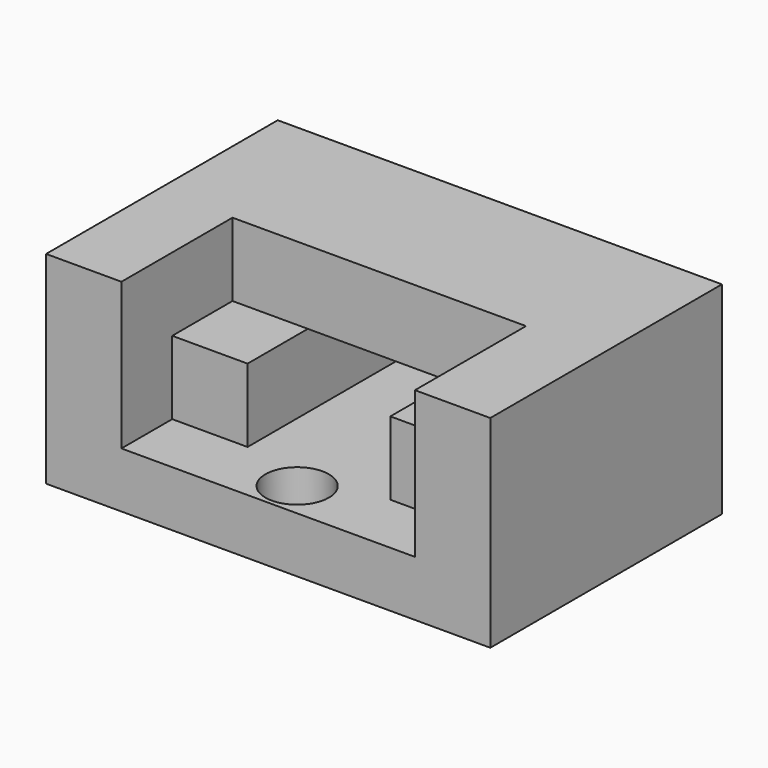
from build123d import *

# Parameters (mm, degrees)
F0_W     = 112
F0_H     = 51
F1_DEPTH = 57
F3_DEPTH = 19
F4_DEPTH = 16
F2_W     = 36
F2_H     = 18.5
F5_DEPTH = 56
F6_R     = 8
F7_DEPTH = 16


with BuildPart() as f1:
    # F0 (on Front) → F1 (new body)
    with BuildSketch(Plane.XZ):
        with Locations((56, 25.5)):
            Rectangle(F0_W, F0_H)
    extrude(amount=F1_DEPTH)

    # F2 (on face) → F3 (cut)
    with BuildSketch(Plane.XZ.offset(57)):
        Polygon((93, 51), (19, 51), (19, 32.5), (38, 32.5), (74, 32.5), (93, 32.5), align=None)
    extrude(amount=-F3_DEPTH, mode=Mode.SUBTRACT)

    # F2 (on face) → F4 (join)
    with BuildSketch(Plane.XZ.offset(57)):
        Polygon((19, 32.5), (19, 51), (0, 51), (0, 0), (112, 0), (112, 51), (93, 51), (93, 32.5), (93, 14), (74, 14), (38, 14), (19, 14), align=None)
    extrude(amount=F4_DEPTH)

    # F2 (on face) → F5 (cut)
    with BuildSketch(Plane.XZ.offset(57)):
        with Locations((56, 23.25)):
            Rectangle(F2_W, F2_H)
    extrude(amount=-F5_DEPTH, mode=Mode.SUBTRACT)

    # F6 (on face) → F7 (cut)
    with BuildSketch(Plane(origin=(0, 0, 0), x_dir=(1, 0, 0), z_dir=(0, 0, -1))):
        with Locations((56, 63.874215)):
            Circle(F6_R)
    extrude(amount=-F7_DEPTH, mode=Mode.SUBTRACT)


solid = f1.part
